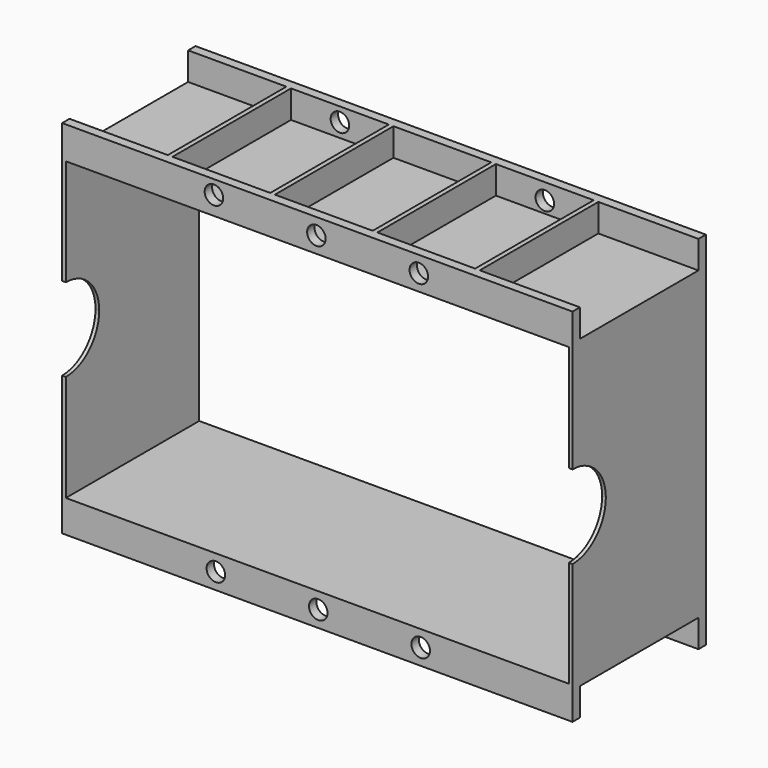
from build123d import *

# Parameters (mm, degrees)
F0_W      = 551
F0_H      = 330
F0_W_2    = 543
F0_H_2    = 320
F1_DEPTH  = 180
F3_DEPTH  = 551.001
F4_W      = 10
F4_H      = 30
F5_DEPTH  = 551
F6_W      = 5
F6_H      = 30
F7_DEPTH  = 160
F8_W      = 5
F8_H      = 30
F9_DEPTH  = 160
F10_R     = 10
F11_DEPTH = 25
F12_DEPTH = 170.001
F13_R     = 10
F14_DEPTH = 25


with BuildPart() as f1:
    # F0 (on Front) → F1 (new body)
    with BuildSketch(Plane.XZ):
        with Locations((275.5, 165)):
            Rectangle(F0_W, F0_H)
        with Locations((275.5, 165)):
            Rectangle(F0_W_2, F0_H_2, mode=Mode.SUBTRACT)
    extrude(amount=F1_DEPTH)

    # F2 (on face) → F3 (cut, through all)
    with BuildSketch(Plane.YZ.offset(551)):
        with BuildLine():
            Line((-180, 120), (-180, 210))
            ThreePointArc((-180, 210), (-225, 165), (-180, 120))
        make_face()
        with BuildLine():
            ThreePointArc((-180, 120), (-148.180195, 133.180195), (-135, 165))
            ThreePointArc((-135, 165), (-148.180195, 196.819805), (-180, 210))
            Line((-180, 210), (-180, 120))
        make_face()
    extrude(amount=-F3_DEPTH, mode=Mode.SUBTRACT)

    # F4 (on face) → F5 (join, through all)
    with BuildSketch(Plane.YZ.offset(551)):
        with Locations((-175, -15)):
            Rectangle(F4_W, F4_H)
        with Locations((-5, -15)):
            Rectangle(F4_W, F4_H)
        with Locations((-175, 345)):
            Rectangle(F4_W, F4_H)
        with Locations((-5, 345)):
            Rectangle(F4_W, F4_H)
    extrude(amount=-F5_DEPTH)

    # F6 (on face) → F7 (join, through all)
    with BuildSketch(Plane.XZ.offset(10)):
        with Locations((110.6, -15)):
            Rectangle(F6_W, F6_H)
        with Locations((221.2, -15)):
            Rectangle(F6_W, F6_H)
        with Locations((331.8, -15)):
            Rectangle(F6_W, F6_H)
        with Locations((442.4, -15)):
            Rectangle(F6_W, F6_H)
    extrude(amount=F7_DEPTH)

    # F8 (on face) → F9 (join, through all)
    with BuildSketch(Plane.XZ.offset(10)):
        with Locations((440.4, 345)):
            Rectangle(F8_W, F8_H)
        with Locations((329.8, 345)):
            Rectangle(F8_W, F8_H)
        with Locations((219.2, 345)):
            Rectangle(F8_W, F8_H)
        with Locations((108.6, 345)):
            Rectangle(F8_W, F8_H)
    extrude(amount=F9_DEPTH)

    # F10 (on face) → F11 (cut)
    with BuildSketch(Plane(origin=(0, -170, 0), x_dir=(-1, 0, 0), z_dir=(0, 1, 0))):
        with Locations((-165.959219, -12.5)):
            Circle(F10_R)
        with Locations((-387.1, -12.5)):
            Circle(F10_R)
        with Locations((-163.9, 345)):
            Circle(F10_R)
        with Locations((-385.1, 342.5)):
            Circle(F10_R)
    extrude(amount=-F11_DEPTH, mode=Mode.SUBTRACT)

    # F10 (on face) → F12 (cut, through all)
    with BuildSketch(Plane(origin=(0, -170, 0), x_dir=(-1, 0, 0), z_dir=(0, 1, 0))):
        with Locations((-163.9, 345)):
            Circle(F10_R)
        with Locations((-385.1, 342.5)):
            Circle(F10_R)
        with Locations((-165.959219, -12.5)):
            Circle(F10_R)
        with Locations((-387.1, -12.5)):
            Circle(F10_R)
    extrude(amount=F12_DEPTH, mode=Mode.SUBTRACT)

    # F13 (on face) → F14 (cut)
    with BuildSketch(Plane.XZ.offset(180)):
        with Locations((274.5, 342.5)):
            Circle(F13_R)
        with Locations((276.5, -12.5)):
            Circle(F13_R)
    extrude(amount=-F14_DEPTH, mode=Mode.SUBTRACT)


solid = f1.part
